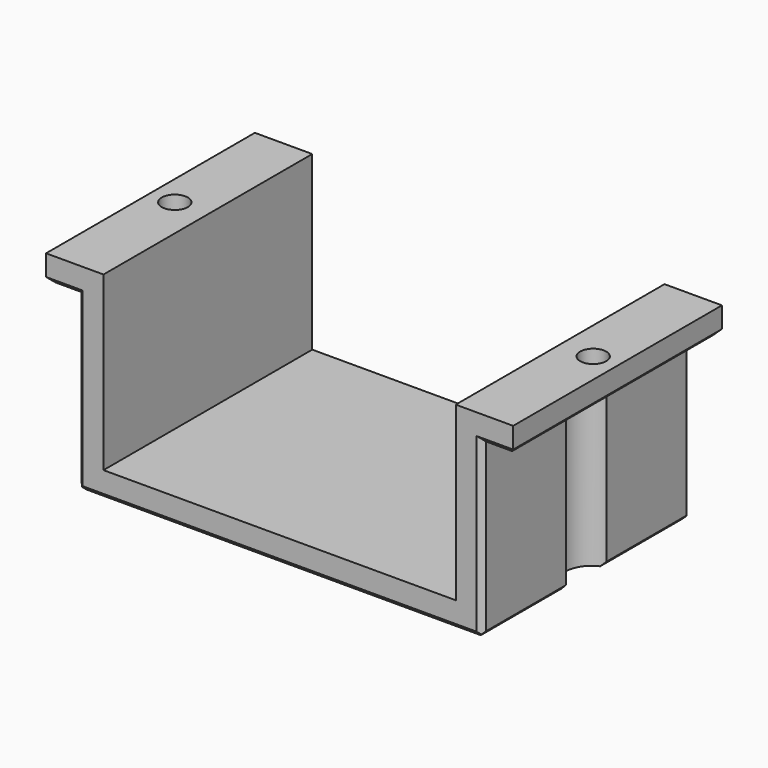
from build123d import *

# Parameters (mm, degrees)
SKETCH_W        = 77.5
SKETCH_H        = 50
PAD_DEPTH       = 5
SKETCH001_W     = 5
SKETCH001_H     = 50
PAD001_DEPTH    = 33
SKETCH002_W     = 50
SKETCH002_H     = 5
PAD002_DEPTH    = 6
SKETCH003_W     = 50
SKETCH003_H     = 5
PAD003_DEPTH    = 6
SKETCH004_R     = 2.5
POCKET_DEPTH    = 5.001
SKETCH005_R     = 5
POCKET001_DEPTH = 33
CHAMFER_SIZE    = 1
CHAMFER001_SIZE = 1
CHAMFER002_SIZE = 1


with BuildPart() as part:
    # Sketch → Pad (new body)
    with BuildSketch(Plane.XY):
        Rectangle(SKETCH_W, SKETCH_H)
    extrude(amount=PAD_DEPTH)

    # Sketch001 (on Face6 of Pad) → Pad001 (join)
    with BuildSketch(Plane.XY.offset(5)):
        with Locations((-36.25, 0)):
            Rectangle(SKETCH001_W, SKETCH001_H)
        with Locations((36.25, 0)):
            Rectangle(SKETCH001_W, SKETCH001_H)
    extrude(amount=PAD001_DEPTH)

    # Sketch002 (on Face10 of Pad001) → Pad002 (join)
    with BuildSketch(Plane.YZ.offset(38.75)):
        with Locations((0, 35.5)):
            Rectangle(SKETCH002_W, SKETCH002_H)
    extrude(amount=PAD002_DEPTH)

    # Sketch003 (on Face9 of Pad002) → Pad003 (join)
    with BuildSketch(Plane(origin=(-38.75, 0, 0), x_dir=(0, -1, 0), z_dir=(-1, 0, 0))):
        with Locations((0, 35.5)):
            Rectangle(SKETCH003_W, SKETCH003_H)
    extrude(amount=PAD003_DEPTH)

    # Sketch004 (on Face19 of Pad003) → Pocket (cut, through all)
    with BuildSketch(Plane(origin=(0, 0, 33), x_dir=(1, 0, 0), z_dir=(0, 0, -1))):
        with Locations((40.036056, -0.059049)):
            Circle(SKETCH004_R)
        with Locations((-40.036056, 0.059049)):
            Circle(SKETCH004_R)
    extrude(amount=-POCKET_DEPTH, mode=Mode.SUBTRACT)

    # Sketch005 (on Face4 of Pocket) → Pocket001 (cut)
    with BuildSketch(Plane(origin=(0, 0, 0), x_dir=(1, 0, 0), z_dir=(0, 0, -1))):
        with Locations((39.75, 0)):
            Circle(SKETCH005_R)
        with Locations((-39.75, 0)):
            Circle(SKETCH005_R)
    extrude(amount=-POCKET001_DEPTH, mode=Mode.SUBTRACT)

    # Chamfer
    chamfer_edges = [part.edges().sort_by_distance(p)[0] for p in [
        (0, 25, 0),
        (0, -25, 0),
        (-38.75, 14.94949, 0),
        (-38.75, -14.94949, 0),
        (38.75, -14.94949, 0),
        (38.75, 14.94949, 0),
    ]]
    chamfer(chamfer_edges, length=CHAMFER_SIZE)

    # Chamfer001
    chamfer001_edges = [part.edges().sort_by_distance(p)[0] for p in [
        (-44.75, 12.5, 33),
        (-44.75, -12.5, 33),
        (44.75, -12.5, 33),
        (44.75, 12.5, 33),
        (-41.75, -25, 33),
        (-41.75, 25, 33),
        (41.75, 25, 33),
        (41.75, -25, 33),
    ]]
    chamfer(chamfer001_edges, length=CHAMFER001_SIZE)

    # Chamfer002
    chamfer002_edges = [part.edges().sort_by_distance(p)[0] for p in [
        (-38.75, 25, 19),
        (-38.75, -25, 19),
        (38.75, 25, 19),
        (38.75, -25, 19),
    ]]
    chamfer(chamfer002_edges, length=CHAMFER002_SIZE)


solid = part.part
